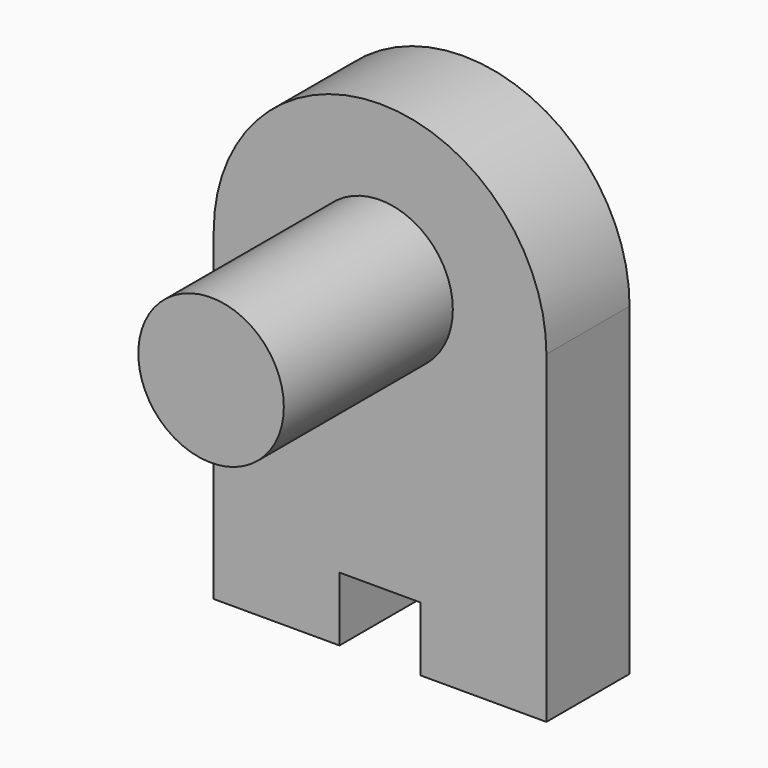
from build123d import *

# Parameters (mm, degrees)
F1_DEPTH = 125
F2_R     = 175
F3_DEPTH = 508


with BuildPart() as f1:
    # F0 (on Front) → F1 (new body, symmetric)
    with BuildSketch(Plane.XZ):
        with BuildLine():
            Line((400, -800), (400, -21.572222))
            ThreePointArc((400, -21.572222), (0, 378.427778), (-400, -21.572222))
            Line((-400, -21.572222), (-400, -800))
            Line((-400, -800), (-97.568646, -800))
            Line((-97.568646, -800), (-97.568646, -645.612514))
            Line((-97.568646, -645.612514), (97.568646, -645.612514))
            Line((97.568646, -645.612514), (97.568646, -800))
            Line((97.568646, -800), (400, -800))
        make_face()
    extrude(amount=F1_DEPTH, both=True)

    # F2 (on face) → F3 (join)
    with BuildSketch(Plane.XZ.offset(125)):
        Circle(F2_R)
    extrude(amount=F3_DEPTH)


solid = f1.part
